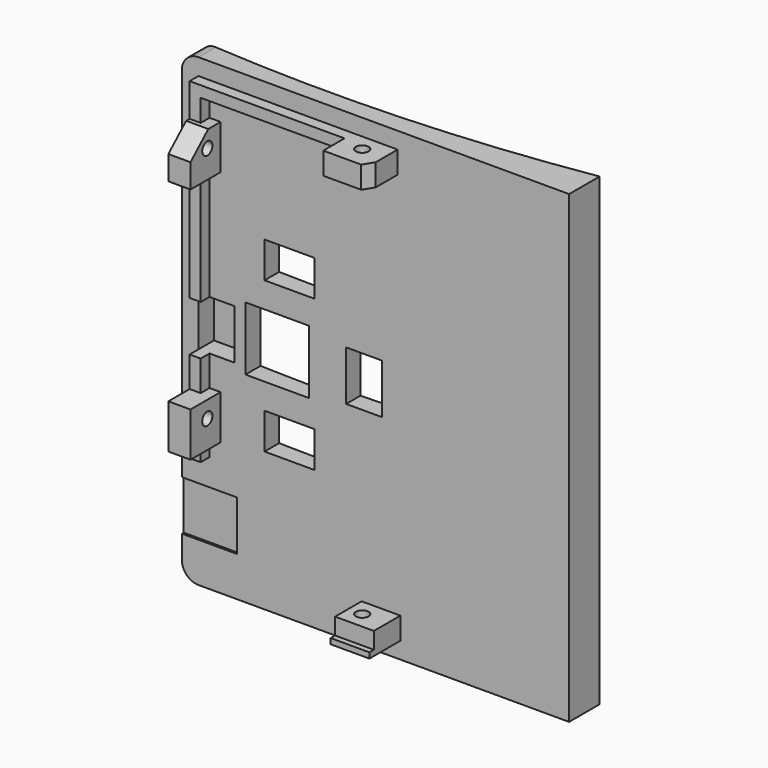
from build123d import *

# Parameters (mm, degrees)
SKETCH009_W             = 84
SKETCH009_H             = 70
PAD002_DEPTH            = 2
SKETCH010_W             = 2
SKETCH010_H             = 7
PAD003_DEPTH            = 2
SKETCH012_W             = 8
SKETCH012_H             = 6.8
PAD004_DEPTH            = 4
SKETCH013_W             = 7
SKETCH013_H             = 6
PAD005_DEPTH            = 4
SKETCH011_W             = 8
SKETCH011_H             = 6.8
PAD006_DEPTH            = 4
SKETCH014_R             = 1.15
POCKET002_DEPTH         = 81.001
SKETCH016_R             = 1.15
POCKET003_DEPTH         = 8.501
SKETCH018_W             = 11.5
SKETCH018_H             = 11.5
POCKET004_DEPTH         = 5
POCKET005_DEPTH         = 5
POCKET006_DEPTH         = 5
SKETCH021_W             = 1
SKETCH021_H             = 7
PAD007_DEPTH            = 1
SKETCH022_W             = 9
SKETCH022_H             = 10
POCKET007_DEPTH         = 0.4
FILLET_R                = 3
BODY002_PITCH_ANGLE     = -90
BODY002_PLACEMENT_ANGLE = 90
PAD001_DEPTH            = 42
SKETCH007_W             = 11.5
SKETCH007_H             = 11.5
POCKET001_DEPTH         = 13
FILLET001_R             = 3
SKETCH025_W             = 6.5
SKETCH025_H             = 9
SKETCH025_W_2           = 9
SKETCH025_H_2           = 6.5
POCKET008_DEPTH         = 3.5


with BuildPart() as back:
    # Sketch009 → Pad002 (new body)
    with BuildSketch(Plane.XY):
        Rectangle(SKETCH009_W, SKETCH009_H)
    extrude(amount=PAD002_DEPTH)

    # Sketch010 (on Face6 of Pad002) → Pad003 (join)
    with BuildSketch(Plane.XY.offset(2)):
        with Locations((-38, -1)):
            Rectangle(SKETCH010_W, SKETCH010_H)
        Polygon((-21, 32), (39, 32), (39, -4), (37, -4), (37, 30), (-21, 30), align=None)
    extrude(amount=PAD003_DEPTH)

    # Sketch012 (on Face15 of Pad003) → Pad004 (join)
    with BuildSketch(Plane.YZ.offset(39)):
        with Locations((0, 5.4)):
            Rectangle(SKETCH012_W, SKETCH012_H)
    extrude(amount=-PAD004_DEPTH)

    # Sketch013 (on Face9 of Pad004) → Pad005 (join)
    with BuildSketch(Plane(origin=(-39, 0, 0), x_dir=(0, -1, 0), z_dir=(-1, 0, 0))):
        with Locations((1, 5)):
            Rectangle(SKETCH013_W, SKETCH013_H)
    extrude(amount=-PAD005_DEPTH)

    # Sketch011 (on Face16 of Pad003) → Pad006 (join)
    with BuildSketch(Plane(origin=(0, 32, 0), x_dir=(-1, 0, 0), z_dir=(0, 1, 0))):
        with Locations((-29, 5.4)):
            Rectangle(SKETCH011_W, SKETCH011_H)
        with Locations((14, 5.4)):
            Rectangle(SKETCH011_W, SKETCH011_H)
    extrude(amount=-PAD006_DEPTH)

    # Sketch014 (on Face44 of Pad006) → Pocket002 (cut, through all)
    with BuildSketch(Plane.YZ.offset(39)):
        with Locations((0, 5)):
            Circle(SKETCH014_R)
    extrude(amount=-POCKET002_DEPTH, mode=Mode.SUBTRACT)

    # Sketch016 → Pocket003 (cut, through all)
    with BuildSketch(Plane.XZ.offset(-26.5)):
        with Locations((-13, 5)):
            Circle(SKETCH016_R)
        with Locations((30, 5)):
            Circle(SKETCH016_R)
    extrude(amount=-POCKET003_DEPTH, mode=Mode.SUBTRACT)

    # Sketch018 (on Face5 of Pocket003) → Pocket004 (cut)
    with BuildSketch(Plane.XY.offset(2)):
        with Locations((0, 17.75)):
            Rectangle(SKETCH018_W, SKETCH018_H)
    extrude(amount=-POCKET004_DEPTH, mode=Mode.SUBTRACT)

    # Sketch019 (on Face31 of Pocket004) → Pocket005 (cut)
    with BuildSketch(Plane.XZ.offset(-28)):
        Polygon((29.125944, 9.042901), (33.258869, 4.499726), (33.258869, 9.042901), align=None)
    extrude(amount=-POCKET005_DEPTH, mode=Mode.SUBTRACT)

    # Sketch020 (on Face36 of Pocket005) → Pocket006 (cut)
    with BuildSketch(Plane(origin=(35, 0, 0), x_dir=(0, -1, 0), z_dir=(-1, 0, 0))):
        Polygon((2.77547, 8.938441), (6.386171, 3.079567), (6.386171, 8.938441), align=None)
    extrude(amount=-POCKET006_DEPTH, mode=Mode.SUBTRACT)

    # Sketch021 (on Face40 of Pocket006) → Pad007 (join)
    with BuildSketch(Plane.XY.offset(8)):
        with Locations((-38.5, -1)):
            Rectangle(SKETCH021_W, SKETCH021_H)
    extrude(amount=PAD007_DEPTH)

    # Sketch022 (on Face5 of Pocket005) → Pocket007 (cut)
    with BuildSketch(Plane.XY.offset(2)):
        with Locations((-30.3, 30)):
            Rectangle(SKETCH022_W, SKETCH022_H)
    extrude(amount=-POCKET007_DEPTH, mode=Mode.SUBTRACT)

    # Fillet
    fillet_edges = [back.edges().sort_by_distance(p)[0] for p in [
        (42, 35, 1),
        (-42, 35, 1),
    ]]
    fillet(fillet_edges, radius=FILLET_R)


with BuildPart() as back_1:
    # Body002 pitch: moved
    add(back.part.rotate(Axis((0, 0, 0), (0, 1, 0)), BODY002_PITCH_ANGLE))


with BuildPart() as back_2:
    # Body002 placement: moved
    add(back_1.part.rotate(Axis((0, 0, 0), (0, 0, 1)), BODY002_PLACEMENT_ANGLE))


with BuildPart() as curve:
    # Sketch006 → Pad001 (new body, symmetric)
    with BuildSketch(Plane.XY):
        with BuildLine():
            ThreePointArc((-35, 2.120911), (0.083645, 1.403594), (35, 4.9))
            Line((35, -0.1), (35, 4.9))
            Line((-35, -0.1), (35, -0.1))
            Line((-35, 2.120911), (-35, -0.1))
        make_face()
    extrude(amount=PAD001_DEPTH, both=True)

    # Sketch007 (on Face3 of Pad001) → Pocket001 (cut)
    with BuildSketch(Plane.XZ.offset(0.1)):
        with Locations((-17.75, 0)):
            Rectangle(SKETCH007_W, SKETCH007_H)
    extrude(amount=-POCKET001_DEPTH, mode=Mode.SUBTRACT)

    # Fillet001
    fillet001_edges = [curve.edges().sort_by_distance(p)[0] for p in [
        (-35, 1.010456, -42),
        (-35, 1.010456, 42),
    ]]
    fillet(fillet001_edges, radius=FILLET001_R)

    # Boolean: union Back
    add(back_2.part)

    # Sketch025 (on Face32 of Boolean) → Pocket008 (cut, symmetric)
    with BuildSketch(Plane.XZ.offset(2)):
        with Locations((-28.75, 0)):
            Rectangle(SKETCH025_W, SKETCH025_H)
        with Locations((-15.55, 13.625)):
            Rectangle(SKETCH025_W_2, SKETCH025_H_2)
        with Locations((-2.05, 0)):
            Rectangle(SKETCH025_W, SKETCH025_H)
        with Locations((-15.55, -13.625)):
            Rectangle(SKETCH025_W_2, SKETCH025_H_2)
    extrude(amount=POCKET008_DEPTH, both=True, mode=Mode.SUBTRACT)


solid = curve.part
